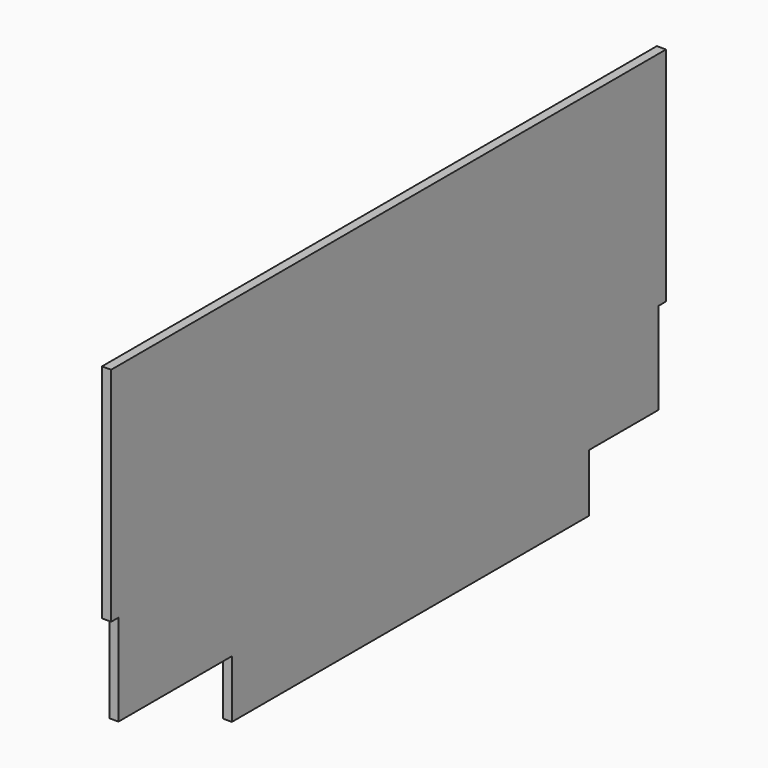
from build123d import *

# Parameters (mm, degrees)
BOX023_W     = 19
BOX023_H     = 1400
BOX023_DEPTH = 190
BOX024_W     = 19
BOX024_H     = 1438
BOX024_DEPTH = 460
BOX021_W     = 19
BOX021_H     = 925
BOX021_DEPTH = 120


with BuildPart() as cube023:
    # Box023 → Box023 (new body)
    with BuildSketch(Plane(origin=(2019, 281, 950), x_dir=(1, 0, 0), z_dir=(0, 0, 1))):
        with Locations((9.5, 700)):
            Rectangle(BOX023_W, BOX023_H)
    extrude(amount=BOX023_DEPTH)


with BuildPart() as cube024:
    # Box024 → Box024 (new body)
    with BuildSketch(Plane(origin=(2019, 262, 1140), x_dir=(1, 0, 0), z_dir=(0, 0, 1))):
        with Locations((9.5, 719)):
            Rectangle(BOX024_W, BOX024_H)
    extrude(amount=BOX024_DEPTH)


with BuildPart() as headboard:
    # Box021 → Box021 (new body)
    with BuildSketch(Plane(origin=(2019, 575, 830), x_dir=(1, 0, 0), z_dir=(0, 0, 1))):
        with Locations((9.5, 462.5)):
            Rectangle(BOX021_W, BOX021_H)
    extrude(amount=BOX021_DEPTH)

    # Fusion: union Cube023, Cube024
    add(cube023.part)
    add(cube024.part)


solid = headboard.part
